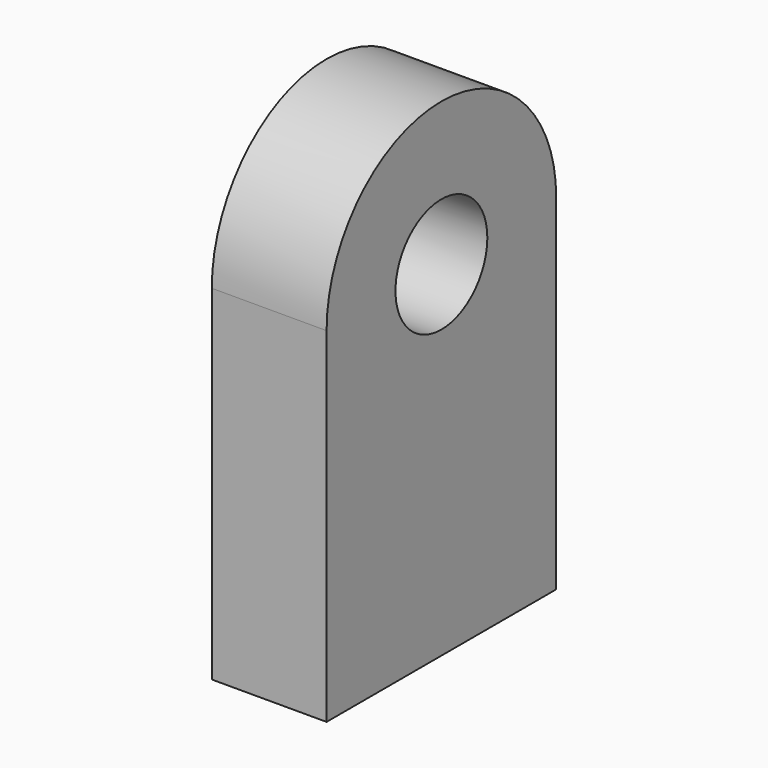
from build123d import *

# Parameters (mm, degrees)
F2_DEPTH = 25.4
F1_R     = 25.4
F3_DEPTH = 29.21


with BuildPart() as f2:
    # F0 (on Right) → F2 (new body, symmetric)
    with BuildSketch(Plane.YZ):
        with BuildLine():
            ThreePointArc((-63.5, 0), (0, -63.5), (63.5, 0))
            ThreePointArc((63.5, 0), (0, 63.5), (-63.5, 0))
        make_face()
        with BuildLine():
            Line((63.5, -152.4), (63.5, 0))
            ThreePointArc((63.5, 0), (0, -63.5), (-63.5, 0))
            Line((-63.5, 0), (-63.5, -152.4))
            Line((-63.5, -152.4), (63.5, -152.4))
        make_face()
    extrude(amount=F2_DEPTH, both=True)

    # F1 (on Right) → F3 (cut, symmetric)
    with BuildSketch(Plane.YZ):
        Circle(F1_R)
    extrude(amount=F3_DEPTH, both=True, mode=Mode.SUBTRACT)


solid = f2.part
